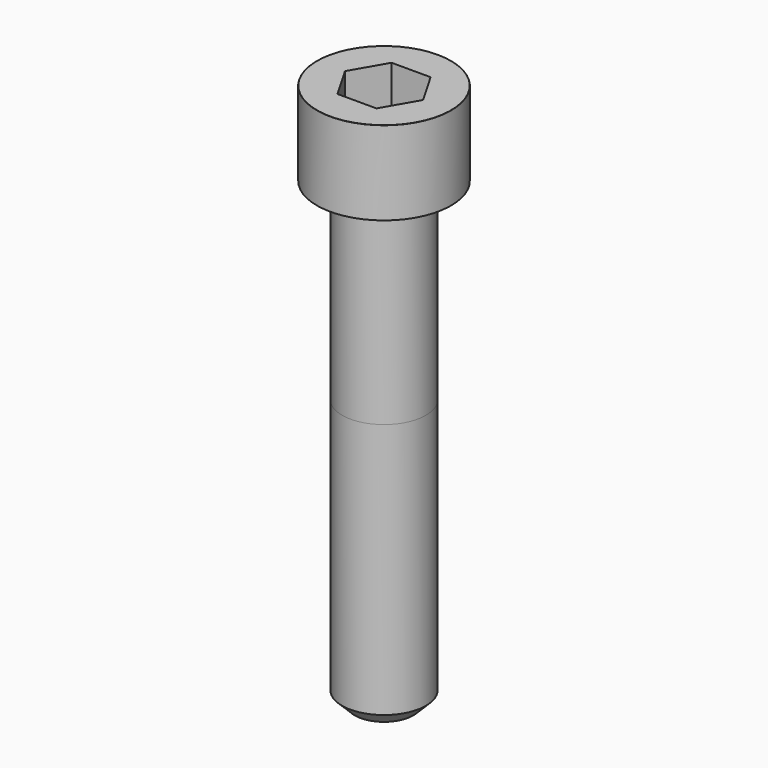
from build123d import *

# Parameters (mm, degrees)
POCKET_DEPTH = 8.07


with BuildPart() as part:
    # Sketch → Revolve (revolve)
    with BuildSketch(Plane.YZ):
        with BuildLine():
            Line((4.999, 0), (8, 0))
            Line((8, 0), (8, 9.97229))
            ThreePointArc((8, 9.97229), (7.991884, 9.991884), (7.97229, 10))
            Line((7.97229, 10), (0, 10))
            Line((0, -55), (0, 10))
            Line((3.5, -55), (0, -55))
            Line((5, -53.5), (3.5, -55))
            Line((5, -23), (5, -53.5))
            Line((4.999, 0), (5, -23))
        make_face()
    revolve(axis=Axis((0, 0, 0), (0, 0, 1)))

    # Sketch001 → Pocket (cut)
    with BuildSketch(Plane.XY.offset(10)):
        Polygon((4.659217, 0), (2.329608, 4.035), (-2.329608, 4.035), (-4.659217, 0), (-2.329608, -4.035), (2.329608, -4.035), align=None)
    extrude(amount=-POCKET_DEPTH, mode=Mode.SUBTRACT)


solid = part.part
